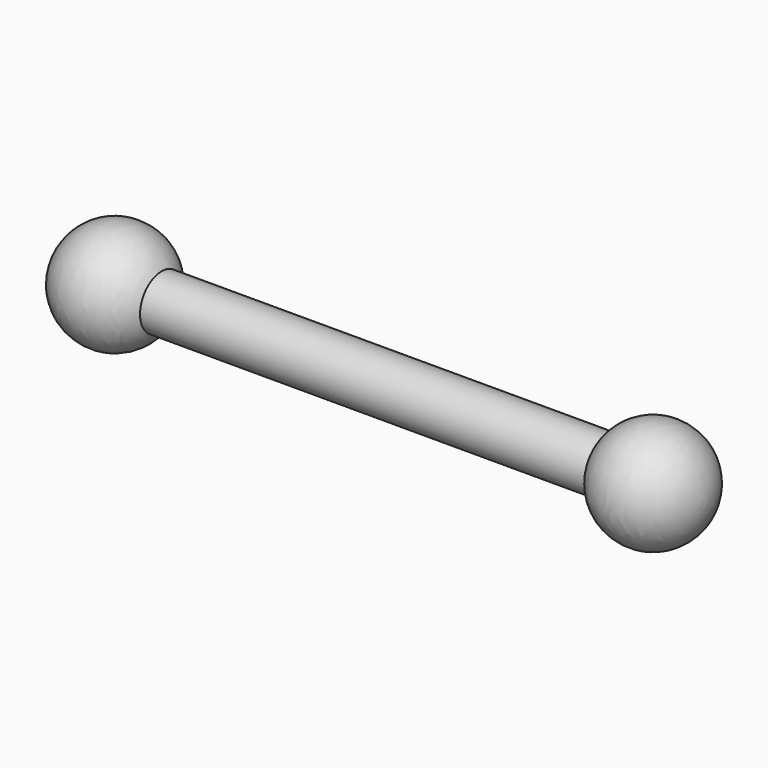
from build123d import *


with BuildPart() as f1:
    # F0 (on Front) → F1 (revolve)
    with BuildSketch(Plane.XZ):
        with BuildLine():
            Line((20.700751, 0), (23.240751, 0))
            ThreePointArc((23.240751, 0), (21.358152, 2.453452), (18.501047, 1.27))
            Line((18.501047, 1.27), (-2.499544, 1.27))
            ThreePointArc((-2.499544, 1.27), (-5.356649, 2.453452), (-7.239249, 0))
            Line((-7.239249, 0), (-4.699249, 0))
            Line((-4.699249, 0), (20.700751, 0))
        make_face()
    revolve(axis=Axis((8.000751, 0, 0), (-1, 0, 0)))


solid = f1.part
